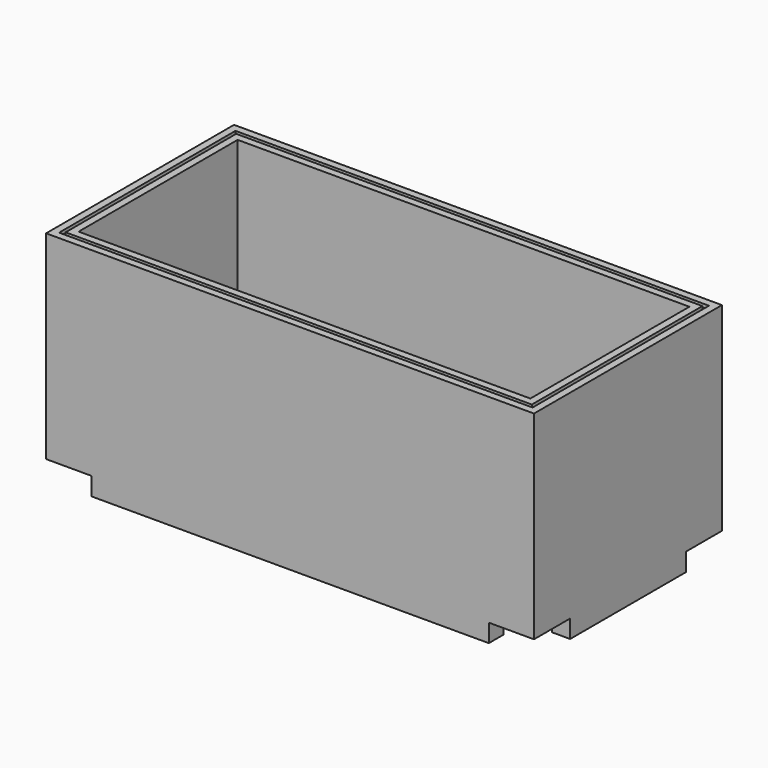
from build123d import *

# Parameters (mm, degrees)
F0_W      = 685.8
F0_H      = 25.4
F1_DEPTH  = 304.8
F2_W      = 25.4
F2_H      = 304.8
F3_DEPTH  = 304.8
F4_DEPTH  = 304.8
F5_W      = 25.4
F5_H      = 304.8
F6_DEPTH  = 660.4
F7_W      = 655.32
F7_H      = 5.08
F7_W_2    = 5.08
F7_H_2    = 299.72
F7_W_3    = 2.54
F8_DEPTH  = 5.08
F9_W      = 63.5
F9_H      = 63.5
F10_DEPTH = 25.4


with BuildPart() as f1:
    # F0 (on Top) → F1 (new body)
    with BuildSketch(Plane.XY):
        with Locations((342.9, -12.7)):
            Rectangle(F0_W, F0_H)
    extrude(amount=F1_DEPTH)

    # F2 (on face) → F3 (join)
    with BuildSketch(Plane.XZ.offset(25.4)):
        with Locations((673.1, 152.4)):
            Rectangle(F2_W, F2_H)
    extrude(amount=F3_DEPTH)

    # F2 (on face) → F4 (join)
    with BuildSketch(Plane.XZ.offset(25.4)):
        with Locations((12.7, 152.4)):
            Rectangle(F2_W, F2_H)
    extrude(amount=F4_DEPTH)

    # F5 (on face) → F6 (join)
    with BuildSketch(Plane.YZ.offset(25.4)):
        with Locations((-317.5, 152.4)):
            Rectangle(F5_W, F5_H)
    extrude(amount=F6_DEPTH)

    # F7 (on face) → F8 (cut)
    with BuildSketch(Plane.XY.offset(304.8)):
        with Locations((342.9, -12.7)):
            Rectangle(F7_W, F7_H)
        Polygon((15.24, -10.16), (12.7, -10.16), (10.16, -10.16), (10.16, -15.24), (15.24, -15.24), align=None)
        with Locations((12.7, -165.1)):
            Rectangle(F7_W_2, F7_H_2)
        with Locations((12.7, -317.5)):
            Rectangle(F7_W_2, F7_H)
        with Locations((342.9, -317.5)):
            Rectangle(F7_W, F7_H)
        with Locations((673.1, -317.5)):
            Rectangle(F7_W_2, F7_H)
        Polygon((675.64, -10.16), (673.1, -10.16), (673.1, -15.24), (670.56, -15.24), (670.56, -314.96), (675.64, -314.96), align=None)
        with Locations((671.83, -12.7)):
            Rectangle(F7_W_3, F7_H)
    extrude(amount=-F8_DEPTH, mode=Mode.SUBTRACT)

    # F9 (on face) → F10 (cut)
    with BuildSketch(Plane(origin=(0, 0, 0), x_dir=(1, 0, 0), z_dir=(0, 0, -1))):
        with Locations((654.05, 31.75)):
            Rectangle(F9_W, F9_H)
        with Locations((654.05, 298.45)):
            Rectangle(F9_W, F9_H)
        with Locations((31.75, 298.45)):
            Rectangle(F9_W, F9_H)
        with Locations((31.75, 31.75)):
            Rectangle(F9_W, F9_H)
    extrude(amount=-F10_DEPTH, mode=Mode.SUBTRACT)


solid = f1.part
